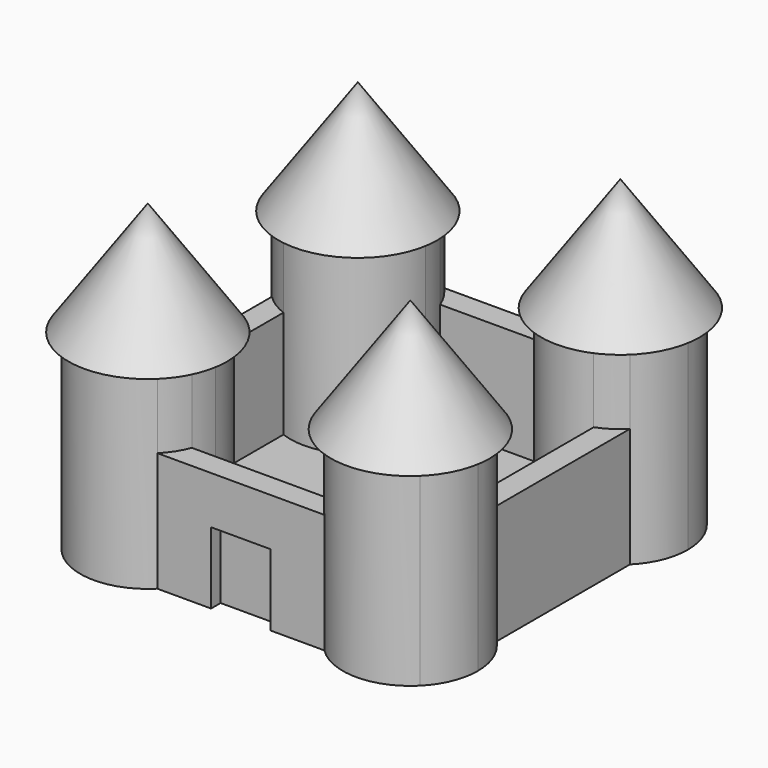
from build123d import *

# Parameters (mm, degrees)
F1_DEPTH  = 2.54
F2_DEPTH  = 25.4
F3_DEPTH  = 40.64
F4_R      = 16.9084097937
F5_DEPTH  = 25.4
F5_TAPER  = 35
F6_R      = 16.9084097937
F7_DEPTH  = 25.4
F7_TAPER  = 35
F8_R      = 16.9084097937
F9_DEPTH  = 25.4
F9_TAPER  = 35
F10_R     = 16.9084097937
F11_DEPTH = 25.4
F11_TAPER = 35
F12_W     = 12.7
F12_H     = 15.24
F13_DEPTH = 2.54


with BuildPart() as f1:
    # F0 (on Top) → F1 (new body)
    with BuildSketch(Plane.XY):
        with BuildLine():
            Line((15.3360397668, 31.8040953928), (-13.6631269128, 31.8040953928))
            ThreePointArc((-13.6631269128, 31.8040953928), (-12.969035899, 29.3061280832), (-12.7351337793, 26.7240953928))
            ThreePointArc((-12.7351337793, 26.7240953928), (-18.9347101726, 14.9037163432), (-32.183543573, 13.2836787326))
            Line((-32.183543573, 13.2836787326), (-32.183543573, -15.715487947))
            ThreePointArc((-32.183543573, -15.715487947), (-18.9347101726, -17.3355255576), (-12.7351337793, -29.1559046072))
            ThreePointArc((-12.7351337793, -29.1559046072), (-12.969035899, -31.7379372975), (-13.6631269128, -34.2359046072))
            Line((-13.6631269128, -34.2359046072), (15.3360397668, -34.2359046072))
            ThreePointArc((15.3360397668, -34.2359046072), (18.616456427, -18.9959046072), (33.856456427, -15.715487947))
            Line((33.856456427, -15.715487947), (33.856456427, 13.2836787326))
            ThreePointArc((33.856456427, 13.2836787326), (18.616456427, 16.5640953928), (15.3360397668, 31.8040953928))
        make_face()
    extrude(amount=F1_DEPTH)


with BuildPart() as f2:
    # F0 (on Top) → F2 (new body)
    with BuildSketch(Plane.XY):
        with BuildLine():
            Line((38.936456427, -18.9959046072), (38.936456427, 16.5640953928))
            ThreePointArc((38.936456427, 16.5640953928), (36.5709854933, 14.6536141831), (33.856456427, 13.2836787326))
            Line((33.856456427, 13.2836787326), (33.856456427, -15.715487947))
            ThreePointArc((33.856456427, -15.715487947), (36.5709854933, -17.0854233975), (38.936456427, -18.9959046072))
        make_face()
    extrude(amount=F2_DEPTH)


with BuildPart() as f2b:
    # F0 (on Top) → F2, piece 2 (new body)
    with BuildSketch(Plane.XY):
        with BuildLine():
            ThreePointArc((-13.6631269128, -34.2359046072), (-15.0330623633, -36.9504336735), (-16.943543573, -39.3159046072))
            Line((-16.943543573, -39.3159046072), (18.616456427, -39.3159046072))
            ThreePointArc((18.616456427, -39.3159046072), (16.7059752173, -36.9504336735), (15.3360397668, -34.2359046072))
            Line((15.3360397668, -34.2359046072), (-13.6631269128, -34.2359046072))
        make_face()
    extrude(amount=F2_DEPTH)

    # F12 (on face) → F13 (cut)
    with BuildSketch(Plane.XZ.offset(39.3159046072)):
        with Locations((0.836456427, 7.62)):
            Rectangle(F12_W, F12_H)
    extrude(amount=-F13_DEPTH, mode=Mode.SUBTRACT)


with BuildPart() as f2c:
    # F0 (on Top) → F2, piece 3 (new body)
    with BuildSketch(Plane.XY):
        with BuildLine():
            ThreePointArc((-32.183543573, 13.2836787326), (-34.8980726394, 14.6536141831), (-37.263543573, 16.5640953928))
            Line((-37.263543573, 16.5640953928), (-37.263543573, -18.9959046072))
            ThreePointArc((-37.263543573, -18.9959046072), (-34.8980726394, -17.0854233975), (-32.183543573, -15.715487947))
            Line((-32.183543573, -15.715487947), (-32.183543573, 13.2836787326))
        make_face()
    extrude(amount=F2_DEPTH)


with BuildPart() as f2d:
    # F0 (on Top) → F2, piece 4 (new body)
    with BuildSketch(Plane.XY):
        with BuildLine():
            Line((18.616456427, 36.8840953928), (-16.943543573, 36.8840953928))
            ThreePointArc((-16.943543573, 36.8840953928), (-15.0330623633, 34.5186244592), (-13.6631269128, 31.8040953928))
            Line((-13.6631269128, 31.8040953928), (15.3360397668, 31.8040953928))
            ThreePointArc((15.3360397668, 31.8040953928), (16.7059752173, 34.5186244592), (18.616456427, 36.8840953928))
        make_face()
    extrude(amount=F2_DEPTH)


with BuildPart() as f3:
    # F0 (on Top) → F3 (new body)
    with BuildSketch(Plane.XY):
        with BuildLine():
            ThreePointArc((43.1448662207, 26.7240953928), (42.0511361501, 32.2226477703), (38.936456427, 36.8840953928))
            Line((38.936456427, 36.8840953928), (38.936456427, 16.5640953928))
            ThreePointArc((38.936456427, 16.5640953928), (42.0511361501, 21.2255430153), (43.1448662207, 26.7240953928))
        make_face()
        with BuildLine():
            Line((38.936456427, 36.8840953928), (18.616456427, 36.8840953928))
            ThreePointArc((18.616456427, 36.8840953928), (16.7059752173, 34.5186244592), (15.3360397668, 31.8040953928))
            ThreePointArc((15.3360397668, 31.8040953928), (18.616456427, 16.5640953928), (33.856456427, 13.2836787326))
            ThreePointArc((33.856456427, 13.2836787326), (36.5709854933, 14.6536141831), (38.936456427, 16.5640953928))
            Line((38.936456427, 16.5640953928), (38.936456427, 36.8840953928))
        make_face()
        with BuildLine():
            ThreePointArc((38.936456427, 36.8840953928), (28.776456427, 41.0925051865), (18.616456427, 36.8840953928))
            Line((18.616456427, 36.8840953928), (38.936456427, 36.8840953928))
        make_face()
    extrude(amount=F3_DEPTH)

    # F8 (on face) → F9 (join)
    with BuildSketch(Plane.XY.offset(40.64)):
        with Locations((28.776456427, 26.7240953928)):
            Circle(F8_R)
    extrude(amount=F9_DEPTH, taper=F9_TAPER)


with BuildPart() as f3b:
    # F0 (on Top) → F3, piece 2 (new body)
    with BuildSketch(Plane.XY):
        with BuildLine():
            ThreePointArc((43.1448662207, -29.1559046072), (42.0511361501, -23.6573522297), (38.936456427, -18.9959046072))
            Line((38.936456427, -18.9959046072), (38.936456427, -39.3159046072))
            ThreePointArc((38.936456427, -39.3159046072), (42.0511361501, -34.6544569847), (43.1448662207, -29.1559046072))
        make_face()
        with BuildLine():
            Line((38.936456427, -39.3159046072), (18.616456427, -39.3159046072))
            ThreePointArc((18.616456427, -39.3159046072), (28.776456427, -43.5243144009), (38.936456427, -39.3159046072))
        make_face()
        with BuildLine():
            Line((38.936456427, -39.3159046072), (38.936456427, -18.9959046072))
            ThreePointArc((38.936456427, -18.9959046072), (36.5709854933, -17.0854233975), (33.856456427, -15.715487947))
            ThreePointArc((33.856456427, -15.715487947), (18.616456427, -18.9959046072), (15.3360397668, -34.2359046072))
            ThreePointArc((15.3360397668, -34.2359046072), (16.7059752173, -36.9504336735), (18.616456427, -39.3159046072))
            Line((18.616456427, -39.3159046072), (38.936456427, -39.3159046072))
        make_face()
    extrude(amount=F3_DEPTH)

    # F10 (on face) → F11 (join)
    with BuildSketch(Plane.XY.offset(40.64)):
        with Locations((28.776456427, -29.1559046072)):
            Circle(F10_R)
    extrude(amount=F11_DEPTH, taper=F11_TAPER)


with BuildPart() as f3c:
    # F0 (on Top) → F3, piece 3 (new body)
    with BuildSketch(Plane.XY):
        with BuildLine():
            Line((-16.943543573, -39.3159046072), (-37.263543573, -39.3159046072))
            ThreePointArc((-37.263543573, -39.3159046072), (-27.103543573, -43.5243144009), (-16.943543573, -39.3159046072))
        make_face()
        with BuildLine():
            ThreePointArc((-32.183543573, -15.715487947), (-34.8980726394, -17.0854233975), (-37.263543573, -18.9959046072))
            Line((-37.263543573, -18.9959046072), (-37.263543573, -39.3159046072))
            Line((-37.263543573, -39.3159046072), (-16.943543573, -39.3159046072))
            ThreePointArc((-16.943543573, -39.3159046072), (-15.0330623633, -36.9504336735), (-13.6631269128, -34.2359046072))
            ThreePointArc((-13.6631269128, -34.2359046072), (-12.969035899, -31.7379372975), (-12.7351337793, -29.1559046072))
            ThreePointArc((-12.7351337793, -29.1559046072), (-18.9347101726, -17.3355255576), (-32.183543573, -15.715487947))
        make_face()
        with BuildLine():
            Line((-37.263543573, -39.3159046072), (-37.263543573, -18.9959046072))
            ThreePointArc((-37.263543573, -18.9959046072), (-41.4719533667, -29.1559046072), (-37.263543573, -39.3159046072))
        make_face()
    extrude(amount=F3_DEPTH)

    # F4 (on face) → F5 (join)
    with BuildSketch(Plane.XY.offset(40.64)):
        with Locations((-27.103543573, -29.1559046072)):
            Circle(F4_R)
    extrude(amount=F5_DEPTH, taper=F5_TAPER)


with BuildPart() as f3d:
    # F0 (on Top) → F3, piece 4 (new body)
    with BuildSketch(Plane.XY):
        with BuildLine():
            Line((-37.263543573, 16.5640953928), (-37.263543573, 36.8840953928))
            ThreePointArc((-37.263543573, 36.8840953928), (-41.4719533667, 26.7240953928), (-37.263543573, 16.5640953928))
        make_face()
        with BuildLine():
            Line((-16.943543573, 36.8840953928), (-37.263543573, 36.8840953928))
            Line((-37.263543573, 36.8840953928), (-37.263543573, 16.5640953928))
            ThreePointArc((-37.263543573, 16.5640953928), (-34.8980726394, 14.6536141831), (-32.183543573, 13.2836787326))
            ThreePointArc((-32.183543573, 13.2836787326), (-18.9347101726, 14.9037163432), (-12.7351337793, 26.7240953928))
            ThreePointArc((-12.7351337793, 26.7240953928), (-12.969035899, 29.3061280832), (-13.6631269128, 31.8040953928))
            ThreePointArc((-13.6631269128, 31.8040953928), (-15.0330623633, 34.5186244592), (-16.943543573, 36.8840953928))
        make_face()
        with BuildLine():
            ThreePointArc((-16.943543573, 36.8840953928), (-27.103543573, 41.0925051865), (-37.263543573, 36.8840953928))
            Line((-37.263543573, 36.8840953928), (-16.943543573, 36.8840953928))
        make_face()
    extrude(amount=F3_DEPTH)

    # F6 (on face) → F7 (join)
    with BuildSketch(Plane.XY.offset(40.64)):
        with Locations((-27.103543573, 26.7240953928)):
            Circle(F6_R)
    extrude(amount=F7_DEPTH, taper=F7_TAPER)


solid = Compound([f1.part, f2.part, f2b.part, f2c.part, f2d.part, f3.part, f3b.part, f3c.part, f3d.part])
